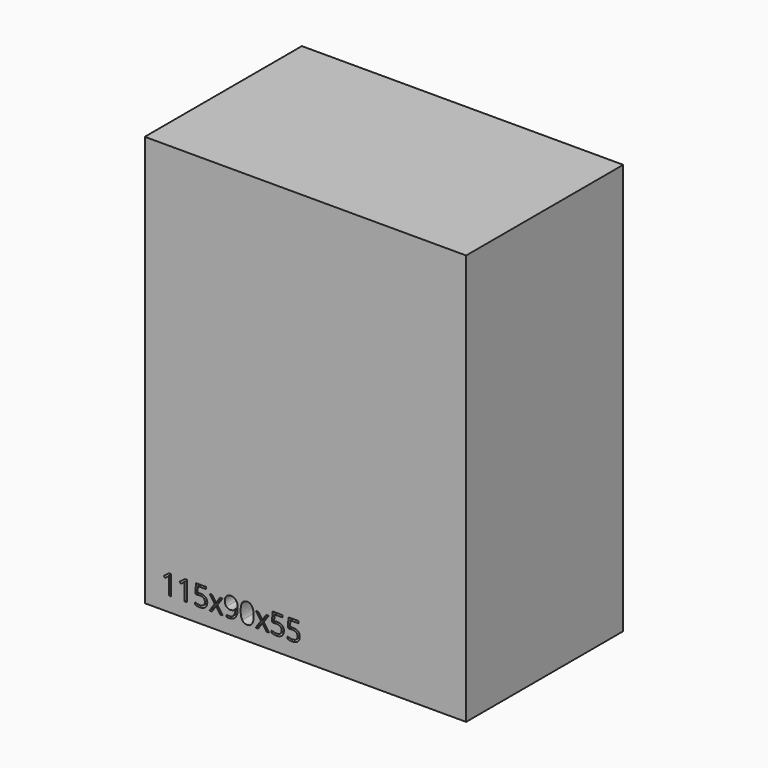
from build123d import *

# Parameters (mm, degrees)
F0_W     = 90
F0_H     = 115
F1_DEPTH = 55


with BuildPart() as f1:
    # F0 (on Front) → F1 (new body)
    with BuildSketch(Plane.XZ):
        Rectangle(F0_W, F0_H)
        with BuildLine():
            Line((-37.6621837058, -47.8841435761), (-37.6621837058, -53.4298494458))
            Line((-37.6621837058, -53.4298494458), (-38.2763503003, -53.4298494458))
            Line((-38.2763503003, -53.4298494458), (-38.2763503003, -49.4778209249))
            add(Edge.make_bspline(
                [(-38.2763503003, -49.4778209249), (-38.2763503003, -48.9838173598), (-38.246006101, -48.5444333535)],
                knots=[0, 0, 0, 1, 1, 1], degree=2))
            add(Edge.make_bspline(
                [(-38.246006101, -48.5444333535), (-38.3249010192, -48.6245420398), (-38.423823109, -48.7113264498)],
                knots=[0, 0, 0, 1, 1, 1], degree=2))
            add(Edge.make_bspline(
                [(-38.423823109, -48.7113264498), (-38.5227451989, -48.7981108599), (-39.3262595971, -49.4511180295)],
                knots=[0, 0, 0, 1, 1, 1], degree=2))
            Line((-39.3262595971, -49.4511180295), (-39.6600457898, -49.0190166311))
            Line((-39.6600457898, -49.0190166311), (-38.1926003101, -47.8841435761))
            Line((-38.1926003101, -47.8841435761), (-37.6621837058, -47.8841435761))
        make_face(mode=Mode.SUBTRACT)
        with BuildLine():
            Line((-33.2210066917, -47.8841435761), (-33.2210066917, -53.4298494458))
            Line((-33.2210066917, -53.4298494458), (-33.8351732862, -53.4298494458))
            Line((-33.8351732862, -53.4298494458), (-33.8351732862, -49.4778209249))
            add(Edge.make_bspline(
                [(-33.8351732862, -49.4778209249), (-33.8351732862, -48.9838173598), (-33.8048290869, -48.5444333535)],
                knots=[0, 0, 0, 1, 1, 1], degree=2))
            add(Edge.make_bspline(
                [(-33.8048290869, -48.5444333535), (-33.8837240051, -48.6245420398), (-33.982646095, -48.7113264498)],
                knots=[0, 0, 0, 1, 1, 1], degree=2))
            add(Edge.make_bspline(
                [(-33.982646095, -48.7113264498), (-34.0815681848, -48.7981108599), (-34.8850825831, -49.4511180295)],
                knots=[0, 0, 0, 1, 1, 1], degree=2))
            Line((-34.8850825831, -49.4511180295), (-35.2188687757, -49.0190166311))
            Line((-35.2188687757, -49.0190166311), (-33.7514232961, -47.8841435761))
            Line((-33.7514232961, -47.8841435761), (-33.2210066917, -47.8841435761))
        make_face(mode=Mode.SUBTRACT)
        with BuildLine():
            add(Edge.make_bspline(
                [(-30.2472751573, -50.1296143266), (-29.8115324549, -50.0422230325), (-29.3782172885, -50.0422230325)],
                knots=[0, 0, 0, 1, 1, 1], degree=2))
            add(Edge.make_bspline(
                [(-29.3782172885, -50.0422230325), (-28.5018768118, -50.0422230325), (-27.9993768709, -50.4767519669)],
                knots=[0, 0, 0, 1, 1, 1], degree=2))
            add(Edge.make_bspline(
                [(-27.9993768709, -50.4767519669), (-27.4968769299, -50.9112809013), (-27.4968769299, -51.6662445807)],
                knots=[0, 0, 0, 1, 1, 1], degree=2))
            add(Edge.make_bspline(
                [(-27.4968769299, -51.6662445807), (-27.4968769299, -52.5268060737), (-28.0448931699, -53.0165614509)],
                knots=[0, 0, 0, 1, 1, 1], degree=2))
            add(Edge.make_bspline(
                [(-28.0448931699, -53.0165614509), (-28.5929094098, -53.5063168281), (-29.5566411805, -53.5063168281)],
                knots=[0, 0, 0, 1, 1, 1], degree=2))
            add(Edge.make_bspline(
                [(-29.5566411805, -53.5063168281), (-30.4936700559, -53.5063168281), (-30.986459853, -53.2065161387)],
                knots=[0, 0, 0, 1, 1, 1], degree=2))
            Line((-30.986459853, -53.2065161387), (-30.986459853, -52.5996321521))
            add(Edge.make_bspline(
                [(-30.986459853, -52.5996321521), (-30.7218584348, -52.7695596684), (-30.3273838435, -52.8666611062)],
                knots=[0, 0, 0, 1, 1, 1], degree=2))
            add(Edge.make_bspline(
                [(-30.3273838435, -52.8666611062), (-29.9329092522, -52.9637625441), (-29.5493585727, -52.9637625441)],
                knots=[0, 0, 0, 1, 1, 1], degree=2))
            add(Edge.make_bspline(
                [(-29.5493585727, -52.9637625441), (-28.8817861874, -52.9637625441), (-28.5121938396, -52.648789755)],
                knots=[0, 0, 0, 1, 1, 1], degree=2))
            add(Edge.make_bspline(
                [(-28.5121938396, -52.648789755), (-28.1426014917, -52.333816966), (-28.1426014917, -51.7378568911)],
                knots=[0, 0, 0, 1, 1, 1], degree=2))
            add(Edge.make_bspline(
                [(-28.1426014917, -51.7378568911), (-28.1426014917, -50.5774947087), (-29.5639237884, -50.5774947087)],
                knots=[0, 0, 0, 1, 1, 1], degree=2))
            add(Edge.make_bspline(
                [(-29.5639237884, -50.5774947087), (-29.9244128764, -50.5774947087), (-30.5276555591, -50.6879475943)],
                knots=[0, 0, 0, 1, 1, 1], degree=2))
            Line((-30.5276555591, -50.6879475943), (-30.8541591439, -50.4791795029))
            Line((-30.8541591439, -50.4791795029), (-30.6453910525, -47.8841435761))
            Line((-30.6453910525, -47.8841435761), (-27.8877102173, -47.8841435761))
            Line((-27.8877102173, -47.8841435761), (-27.8877102173, -48.4643246673))
            Line((-27.8877102173, -48.4643246673), (-30.1064780724, -48.4643246673))
            Line((-30.1064780724, -48.4643246673), (-30.2472751573, -50.1296143266))
        make_face(mode=Mode.SUBTRACT)
        Polygon((-26.9021306231, -53.4298494458), (-25.3812793526, -51.3021141887), (-26.8268770087, -49.2726941375), (-26.1095401365, -49.2726941375), (-25.0135076567, -50.8651577184), (-23.9211164808, -49.2726941375), (-23.2110622164, -49.2726941375), (-24.6566598726, -51.3021141887), (-23.1358086021, -53.4298494458), (-23.8482904024, -53.4298494458), (-25.0135076567, -51.745139499), (-26.1896488228, -53.4298494458), align=None, mode=Mode.SUBTRACT)
        with BuildLine():
            add(Edge.make_bspline(
                [(-19.1831731972, -48.9407285968), (-18.9555917023, -49.4960274445), (-18.9555917023, -50.2509911239)],
                knots=[0, 0, 0, 1, 1, 1], degree=2))
            add(Edge.make_bspline(
                [(-18.9555917023, -50.2509911239), (-18.9555917023, -53.5063168281), (-21.4741602467, -53.5063168281)],
                knots=[0, 0, 0, 1, 1, 1], degree=2))
            add(Edge.make_bspline(
                [(-21.4741602467, -53.5063168281), (-21.914758021, -53.5063168281), (-22.1720768313, -53.4298494458)],
                knots=[0, 0, 0, 1, 1, 1], degree=2))
            Line((-22.1720768313, -53.4298494458), (-22.1720768313, -52.8872951618))
            add(Edge.make_bspline(
                [(-22.1720768313, -52.8872951618), (-21.868634838, -52.9856103676), (-21.4826566225, -52.9856103676)],
                knots=[0, 0, 0, 1, 1, 1], degree=2))
            add(Edge.make_bspline(
                [(-21.4826566225, -52.9856103676), (-20.5723306426, -52.9856103676), (-20.1074575089, -52.422422028)],
                knots=[0, 0, 0, 1, 1, 1], degree=2))
            add(Edge.make_bspline(
                [(-20.1074575089, -52.422422028), (-19.6425843751, -51.8592336884), (-19.601316264, -50.6952302021)],
                knots=[0, 0, 0, 1, 1, 1], degree=2))
            Line((-19.601316264, -50.6952302021), (-19.646225679, -50.6952302021))
            add(Edge.make_bspline(
                [(-19.646225679, -50.6952302021), (-19.8549937704, -51.0095961072), (-20.2003107588, -51.1746685515)],
                knots=[0, 0, 0, 1, 1, 1], degree=2))
            add(Edge.make_bspline(
                [(-20.2003107588, -51.1746685515), (-20.5456277472, -51.3397409959), (-20.9777291457, -51.3397409959)],
                knots=[0, 0, 0, 1, 1, 1], degree=2))
            add(Edge.make_bspline(
                [(-20.9777291457, -51.3397409959), (-21.7132725375, -51.3397409959), (-22.1459808199, -50.8997501056)],
                knots=[0, 0, 0, 1, 1, 1], degree=2))
            add(Edge.make_bspline(
                [(-22.1459808199, -50.8997501056), (-22.5786891024, -50.4597592153), (-22.5786891024, -49.6708100327)],
                knots=[0, 0, 0, 1, 1, 1], degree=2))
            add(Edge.make_bspline(
                [(-22.5786891024, -49.6708100327), (-22.5786891024, -48.8066072357), (-22.095002565, -48.3059279468)],
                knots=[0, 0, 0, 1, 1, 1], degree=2))
            add(Edge.make_bspline(
                [(-22.095002565, -48.3059279468), (-21.6113160277, -47.8052486578), (-20.8223668451, -47.8052486578)],
                knots=[0, 0, 0, 1, 1, 1], degree=2))
            add(Edge.make_bspline(
                [(-20.8223668451, -47.8052486578), (-20.2567509696, -47.8052486578), (-19.8337528309, -48.0953392034)],
                knots=[0, 0, 0, 1, 1, 1], degree=2))
            add(Edge.make_bspline(
                [(-19.8337528309, -48.0953392034), (-19.4107546922, -48.385429749), (-19.1831731972, -48.9407285968)],
                knots=[0, 0, 0, 1, 1, 1], degree=2))
        make_face(mode=Mode.SUBTRACT)
        with BuildLine():
            add(Edge.make_bspline(
                [(-14.9525849265, -48.5292612539), (-14.4840704888, -49.2617702257), (-14.4840704888, -50.6491070191)],
                knots=[0, 0, 0, 1, 1, 1], degree=2))
            add(Edge.make_bspline(
                [(-14.4840704888, -50.6491070191), (-14.4840704888, -52.0874220674), (-14.9374128268, -52.7968694478)],
                knots=[0, 0, 0, 1, 1, 1], degree=2))
            add(Edge.make_bspline(
                [(-14.9374128268, -52.7968694478), (-15.3907551648, -53.5063168281), (-16.3241427363, -53.5063168281)],
                knots=[0, 0, 0, 1, 1, 1], degree=2))
            add(Edge.make_bspline(
                [(-16.3241427363, -53.5063168281), (-17.2186897325, -53.5063168281), (-17.6853835183, -52.7798766961)],
                knots=[0, 0, 0, 1, 1, 1], degree=2))
            add(Edge.make_bspline(
                [(-17.6853835183, -52.7798766961), (-18.152077304, -52.0534365642), (-18.152077304, -50.6491070191)],
                knots=[0, 0, 0, 1, 1, 1], degree=2))
            add(Edge.make_bspline(
                [(-18.152077304, -50.6491070191), (-18.152077304, -49.2010818271), (-17.7005556179, -48.4989170545)],
                knots=[0, 0, 0, 1, 1, 1], degree=2))
            add(Edge.make_bspline(
                [(-17.7005556179, -48.4989170545), (-17.2490339319, -47.796752282), (-16.3241427363, -47.796752282)],
                knots=[0, 0, 0, 1, 1, 1], degree=2))
            add(Edge.make_bspline(
                [(-16.3241427363, -47.796752282), (-15.4210993642, -47.796752282), (-14.9525849265, -48.5292612539)],
                knots=[0, 0, 0, 1, 1, 1], degree=2))
        make_face(mode=Mode.SUBTRACT)
        Polygon((-13.9500125806, -53.4298494458), (-12.4291613101, -51.3021141887), (-13.8747589663, -49.2726941375), (-13.1574220941, -49.2726941375), (-12.0613896142, -50.8651577184), (-10.9689984383, -49.2726941375), (-10.258944174, -49.2726941375), (-11.7045418301, -51.3021141887), (-10.1836905596, -53.4298494458), (-10.8961723599, -53.4298494458), (-12.0613896142, -51.745139499), (-13.2375307803, -53.4298494458), align=None, mode=Mode.SUBTRACT)
        with BuildLine():
            add(Edge.make_bspline(
                [(-8.7842160865, -50.1296143266), (-8.3484733841, -50.0422230325), (-7.9151582177, -50.0422230325)],
                knots=[0, 0, 0, 1, 1, 1], degree=2))
            add(Edge.make_bspline(
                [(-7.9151582177, -50.0422230325), (-7.038817741, -50.0422230325), (-6.5363178001, -50.4767519669)],
                knots=[0, 0, 0, 1, 1, 1], degree=2))
            add(Edge.make_bspline(
                [(-6.5363178001, -50.4767519669), (-6.0338178591, -50.9112809013), (-6.0338178591, -51.6662445807)],
                knots=[0, 0, 0, 1, 1, 1], degree=2))
            add(Edge.make_bspline(
                [(-6.0338178591, -51.6662445807), (-6.0338178591, -52.5268060737), (-6.5818340991, -53.0165614509)],
                knots=[0, 0, 0, 1, 1, 1], degree=2))
            add(Edge.make_bspline(
                [(-6.5818340991, -53.0165614509), (-7.129850339, -53.5063168281), (-8.0935821097, -53.5063168281)],
                knots=[0, 0, 0, 1, 1, 1], degree=2))
            add(Edge.make_bspline(
                [(-8.0935821097, -53.5063168281), (-9.0306109851, -53.5063168281), (-9.5234007822, -53.2065161387)],
                knots=[0, 0, 0, 1, 1, 1], degree=2))
            Line((-9.5234007822, -53.2065161387), (-9.5234007822, -52.5996321521))
            add(Edge.make_bspline(
                [(-9.5234007822, -52.5996321521), (-9.258799364, -52.7695596684), (-8.8643247727, -52.8666611062)],
                knots=[0, 0, 0, 1, 1, 1], degree=2))
            add(Edge.make_bspline(
                [(-8.8643247727, -52.8666611062), (-8.4698501814, -52.9637625441), (-8.0862995019, -52.9637625441)],
                knots=[0, 0, 0, 1, 1, 1], degree=2))
            add(Edge.make_bspline(
                [(-8.0862995019, -52.9637625441), (-7.4187271166, -52.9637625441), (-7.0491347687, -52.648789755)],
                knots=[0, 0, 0, 1, 1, 1], degree=2))
            add(Edge.make_bspline(
                [(-7.0491347687, -52.648789755), (-6.6795424209, -52.333816966), (-6.6795424209, -51.7378568911)],
                knots=[0, 0, 0, 1, 1, 1], degree=2))
            add(Edge.make_bspline(
                [(-6.6795424209, -51.7378568911), (-6.6795424209, -50.5774947087), (-8.1008647176, -50.5774947087)],
                knots=[0, 0, 0, 1, 1, 1], degree=2))
            add(Edge.make_bspline(
                [(-8.1008647176, -50.5774947087), (-8.4613538056, -50.5774947087), (-9.0645964883, -50.6879475943)],
                knots=[0, 0, 0, 1, 1, 1], degree=2))
            Line((-9.0645964883, -50.6879475943), (-9.3911000731, -50.4791795029))
            Line((-9.3911000731, -50.4791795029), (-9.1823319817, -47.8841435761))
            Line((-9.1823319817, -47.8841435761), (-6.4246511465, -47.8841435761))
            Line((-6.4246511465, -47.8841435761), (-6.4246511465, -48.4643246673))
            Line((-6.4246511465, -48.4643246673), (-8.6434190016, -48.4643246673))
            Line((-8.6434190016, -48.4643246673), (-8.7842160865, -50.1296143266))
        make_face(mode=Mode.SUBTRACT)
        with BuildLine():
            add(Edge.make_bspline(
                [(-4.3430390724, -50.1296143266), (-3.90729637, -50.0422230325), (-3.4739812036, -50.0422230325)],
                knots=[0, 0, 0, 1, 1, 1], degree=2))
            add(Edge.make_bspline(
                [(-3.4739812036, -50.0422230325), (-2.5976407269, -50.0422230325), (-2.095140786, -50.4767519669)],
                knots=[0, 0, 0, 1, 1, 1], degree=2))
            add(Edge.make_bspline(
                [(-2.095140786, -50.4767519669), (-1.592640845, -50.9112809013), (-1.592640845, -51.6662445807)],
                knots=[0, 0, 0, 1, 1, 1], degree=2))
            add(Edge.make_bspline(
                [(-1.592640845, -51.6662445807), (-1.592640845, -52.5268060737), (-2.140657085, -53.0165614509)],
                knots=[0, 0, 0, 1, 1, 1], degree=2))
            add(Edge.make_bspline(
                [(-2.140657085, -53.0165614509), (-2.6886733249, -53.5063168281), (-3.6524050956, -53.5063168281)],
                knots=[0, 0, 0, 1, 1, 1], degree=2))
            add(Edge.make_bspline(
                [(-3.6524050956, -53.5063168281), (-4.589433971, -53.5063168281), (-5.0822237681, -53.2065161387)],
                knots=[0, 0, 0, 1, 1, 1], degree=2))
            Line((-5.0822237681, -53.2065161387), (-5.0822237681, -52.5996321521))
            add(Edge.make_bspline(
                [(-5.0822237681, -52.5996321521), (-4.8176223499, -52.7695596684), (-4.4231477586, -52.8666611062)],
                knots=[0, 0, 0, 1, 1, 1], degree=2))
            add(Edge.make_bspline(
                [(-4.4231477586, -52.8666611062), (-4.0286731673, -52.9637625441), (-3.6451224878, -52.9637625441)],
                knots=[0, 0, 0, 1, 1, 1], degree=2))
            add(Edge.make_bspline(
                [(-3.6451224878, -52.9637625441), (-2.9775501025, -52.9637625441), (-2.6079577547, -52.648789755)],
                knots=[0, 0, 0, 1, 1, 1], degree=2))
            add(Edge.make_bspline(
                [(-2.6079577547, -52.648789755), (-2.2383654068, -52.333816966), (-2.2383654068, -51.7378568911)],
                knots=[0, 0, 0, 1, 1, 1], degree=2))
            add(Edge.make_bspline(
                [(-2.2383654068, -51.7378568911), (-2.2383654068, -50.5774947087), (-3.6596877035, -50.5774947087)],
                knots=[0, 0, 0, 1, 1, 1], degree=2))
            add(Edge.make_bspline(
                [(-3.6596877035, -50.5774947087), (-4.0201767915, -50.5774947087), (-4.6234194742, -50.6879475943)],
                knots=[0, 0, 0, 1, 1, 1], degree=2))
            Line((-4.6234194742, -50.6879475943), (-4.949923059, -50.4791795029))
            Line((-4.949923059, -50.4791795029), (-4.7411549676, -47.8841435761))
            Line((-4.7411549676, -47.8841435761), (-1.9834741324, -47.8841435761))
            Line((-1.9834741324, -47.8841435761), (-1.9834741324, -48.4643246673))
            Line((-1.9834741324, -48.4643246673), (-4.2022419875, -48.4643246673))
            Line((-4.2022419875, -48.4643246673), (-4.3430390724, -50.1296143266))
        make_face(mode=Mode.SUBTRACT)
    extrude(amount=F1_DEPTH)


solid = f1.part
